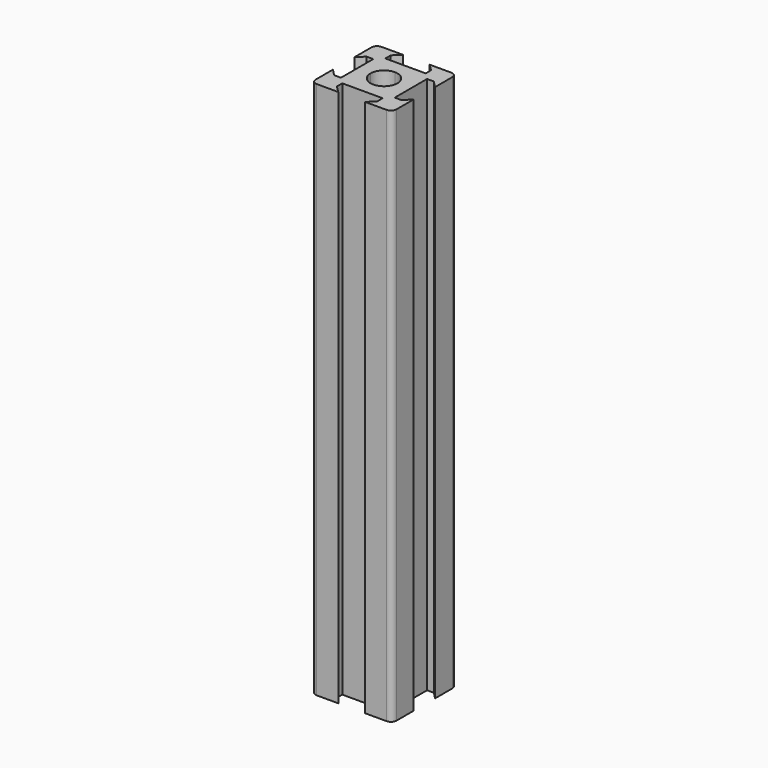
from build123d import *

# Parameters (mm, degrees)
F2_DEPTH = 50


with BuildPart() as f2:
    # F0 (on Top) → F2 (new body, symmetric)
    with BuildSketch(Plane.XY):
        with BuildLine():
            ThreePointArc((7.5, 6.5), (7.2071067812, 7.2071067812), (6.5, 7.5))
            Line((6.5, 7.5), (2.5, 7.5))
            Line((2.5, 7.5), (3.75, 6.25))
            Line((3.75, 6.25), (3.75, 5))
            Line((3.75, 5), (0, 5))
            Line((0, 5), (0, 2.5))
            ThreePointArc((0, 2.5), (1.767766953, 1.767766953), (2.5, 0))
            Line((2.5, 0), (5, 0))
            Line((5, 0), (5, 3.75))
            Line((5, 3.75), (6.25, 3.75))
            Line((6.25, 3.75), (7.5, 2.5))
            Line((7.5, 2.5), (7.5, 6.5))
        make_face()
    extrude(amount=F2_DEPTH, both=True)

    # F3: F2 across plane


with BuildPart() as f2_1:
    add(f2.part)
    add(f2.part.mirror(Plane.YZ))

    # F4: F2 across plane


with BuildPart() as f2_2:
    add(f2_1.part)
    add(f2_1.part.mirror(Plane.XZ))


solid = f2_2.part
